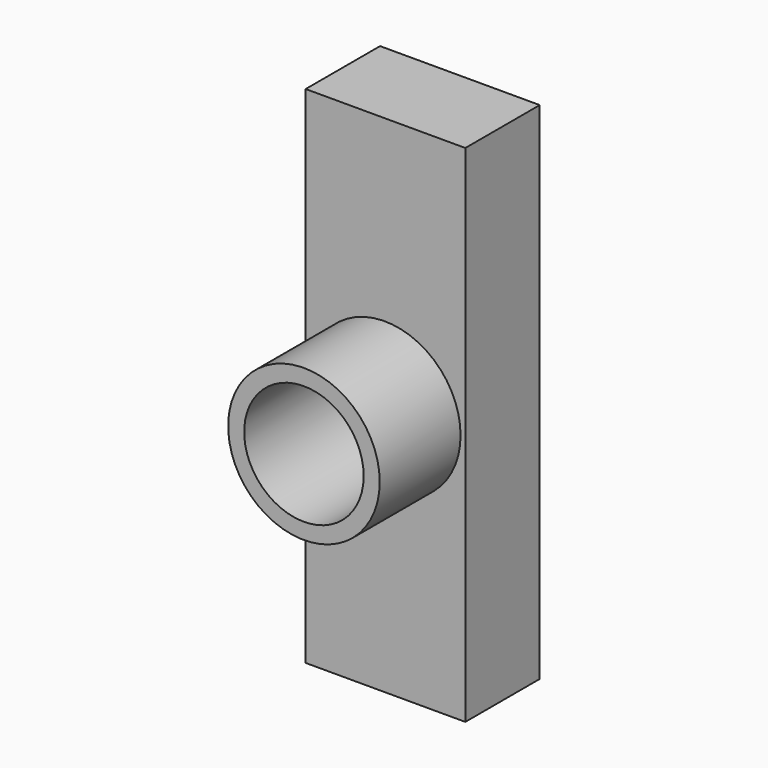
from build123d import *

# Parameters (mm, degrees)
F0_R      = 9.525
F1_DEPTH  = 12.7
F2_R      = 7.506921
F3_DEPTH  = 25.4
F4_W      = 20.066
F4_H      = 63.5
F5_DEPTH  = 11.684
F5_FACE_R = 7.506921
F6_DEPTH  = 25.4


with BuildPart() as f1:
    # F0 (on Front) → F1 (new body)
    with BuildSketch(Plane.XZ):
        with Locations((-23.762971, 23.442931)):
            Circle(F0_R)
    extrude(amount=F1_DEPTH)

    # F2 (on face) → F3 (cut)
    with BuildSketch(Plane.XZ.offset(12.7)):
        with Locations((-23.762971, 23.442931)):
            Circle(F2_R)
    extrude(amount=-F3_DEPTH, mode=Mode.SUBTRACT)

    # F4 (on Front) → F5 (join)
    with BuildSketch(Plane.XZ):
        with Locations((-23.671666, 23.678257)):
            Rectangle(F4_W, F4_H)
    extrude(amount=-F5_DEPTH)

    # F5_face (on face) → F6 (cut)
    with BuildSketch(Plane(origin=(-23.762971, 0, 23.442931), x_dir=(1, 0, 0), z_dir=(0, -1, 0))):
        Circle(F5_FACE_R)
    extrude(amount=-F6_DEPTH, mode=Mode.SUBTRACT)


solid = f1.part
